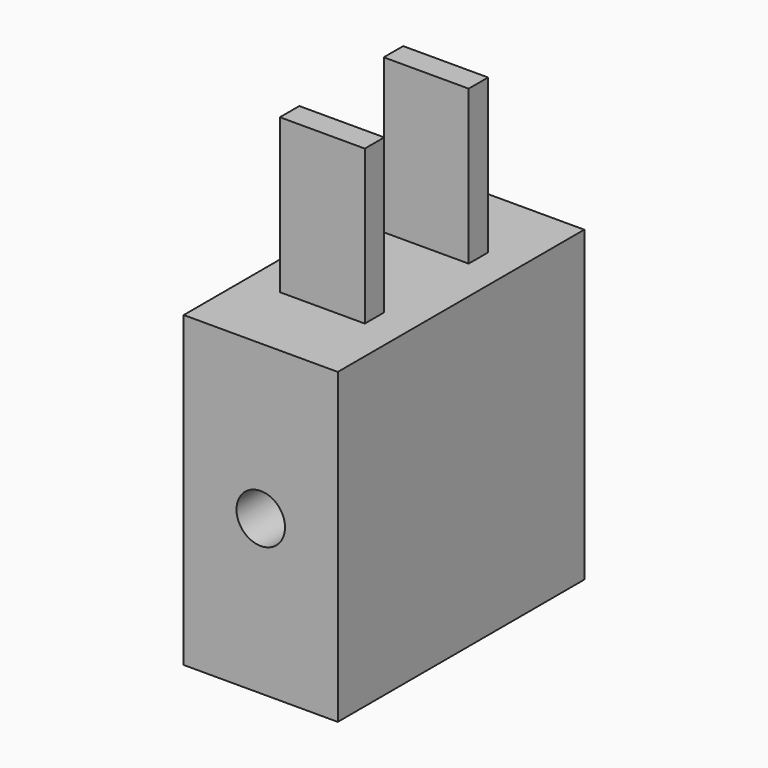
from build123d import *

# Parameters (mm, degrees)
F0_W     = 6.35
F0_H     = 12.7
F1_DEPTH = 12.7
F2_W     = 3.5
F2_H     = 1
F3_DEPTH = 6.35
F4_R     = 1
F5_DEPTH = 12.701


with BuildPart() as f1:
    # F0 (on Top) → F1 (new body)
    with BuildSketch(Plane.XY):
        with Locations((3.175, 6.35)):
            Rectangle(F0_W, F0_H)
    extrude(amount=F1_DEPTH)

    # F2 (on face) → F3 (join)
    with BuildSketch(Plane.XY.offset(12.7)):
        with Locations((3.175, 9.025)):
            Rectangle(F2_W, F2_H)
        with Locations((3.175, 3.675)):
            Rectangle(F2_W, F2_H)
    extrude(amount=F3_DEPTH)

    # F4 (on face) → F5 (cut, through all)
    with BuildSketch(Plane(origin=(0, 12.7, 0), x_dir=(-1, 0, 0), z_dir=(0, 1, 0))):
        with Locations((-3.175, 6.35)):
            Circle(F4_R)
    extrude(amount=-F5_DEPTH, mode=Mode.SUBTRACT)


solid = f1.part
